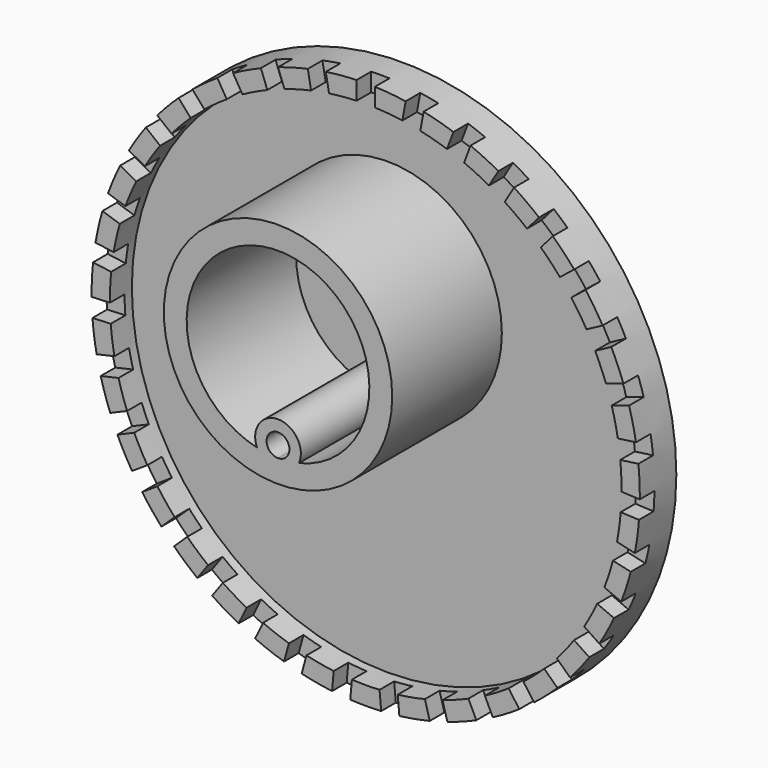
from build123d import *

# Parameters (mm, degrees)
F0_R      = 38.1
F1_DEPTH  = 3.175
F2_T      = -2.54
F4_DEPTH  = 2.54
F5_R      = 1.5875
F6_DEPTH  = 25.4
F7_R      = 3.175
F7_R_2    = 1.5875
F8_DEPTH  = 19.05
F9_R      = 15.875
F9_R_2    = 12.7
F10_DEPTH = 19.05


with BuildPart() as f1:
    # F0 (on Front) → F1 (new body, symmetric)
    with BuildSketch(Plane.XZ):
        Circle(F0_R)
    extrude(amount=F1_DEPTH, both=True)

    # F2
    f2_openings = [f1.faces().sort_by_distance(p)[0] for p in [
        (0, -3.175, 0),
    ]]
    offset(amount=F2_T, openings=f2_openings)

    # F3 (on face) → F4 (cut)
    with BuildSketch(Plane.XZ.offset(3.175)):
        with BuildLine():
            Line((1.27, 35.5373141923), (1.27, 38.0788274504))
            ThreePointArc((1.27, 38.0788274504), (0, 38.1), (-1.27, 38.0788274504))
            Line((-1.27, 38.0788274504), (-1.27, 35.5373141923))
            ThreePointArc((-1.27, 35.5373141923), (0, 35.56), (1.27, 35.5373141923))
        make_face()
        with BuildLine():
            Line((-5.0958418941, 35.1929821895), (-5.5496466096, 37.693652284))
            ThreePointArc((-5.5496466096, 37.693652284), (-6.8030176918, 37.4877173256), (-8.0488277646, 37.2401177712))
            Line((-8.0488277646, 37.2401177712), (-7.5950230492, 34.7394476767))
            ThreePointArc((-7.5950230492, 34.7394476767), (-6.349483179, 34.9885361706), (-5.0958418941, 35.1929821895))
        make_face()
        with BuildLine():
            Line((-11.2978992369, 33.7175187823), (-12.1909230109, 36.0969721188))
            ThreePointArc((-12.1909230109, 36.0969721188), (-13.3873807975, 35.6705485714), (-14.5689595823, 35.2044800656))
            Line((-14.5689595823, 35.2044800656), (-13.6759358083, 32.8250267291))
            ThreePointArc((-13.6759358083, 32.8250267291), (-12.4948887443, 33.292512), (-11.2978992369, 33.7175187823))
        make_face()
        with BuildLine():
            Line((-17.1368328023, 31.1583465785), (-18.4403731159, 33.3401055689))
            ThreePointArc((-18.4403731159, 33.3401055689), (-19.5414624692, 32.7068990362), (-20.6208330517, 32.0373414043))
            Line((-20.6208330517, 32.0373414043), (-19.317292738, 29.8555824139))
            ThreePointArc((-19.317292738, 29.8555824139), (-18.2386983046, 30.5264391005), (-17.1368328023, 31.1583465785))
        make_face()
        with BuildLine():
            Line((-22.4249744612, 27.5977194785), (-24.0971344562, 29.5116605937))
            ThreePointArc((-24.0971344562, 29.5116605937), (-25.0674654583, 28.6920228547), (-26.0099359798, 27.8404962299))
            Line((-26.0099359798, 27.8404962299), (-24.3377759848, 25.9265551147))
            ThreePointArc((-24.3377759848, 25.9265551147), (-23.3963010944, 26.7792213311), (-22.4249744612, 27.5977194785))
        make_face()
        with BuildLine():
            Line((-26.9923589895, 23.1500789671), (-28.9793940679, 24.7346865648))
            ThreePointArc((-28.9793940679, 24.7346865648), (-29.787779482, 23.7549614508), (-30.5630581646, 22.7488345994))
            Line((-30.5630581646, 22.7488345994), (-28.5760230862, 21.1642270016))
            ThreePointArc((-28.5760230862, 21.1642270016), (-27.8019275166, 22.1712973541), (-26.9923589895, 23.1500789671))
        make_face()
        with BuildLine():
            Line((-30.6921868906, 17.9583758696), (-32.9302321099, 19.1627193579))
            ThreePointArc((-32.9302321099, 19.1627193579), (-33.5506897637, 18.0543960402), (-34.1338585125, 16.926006707))
            Line((-34.1338585125, 16.926006707), (-31.8958132932, 15.7216632187))
            ThreePointArc((-31.8958132932, 15.7216632187), (-31.3139771128, 16.8507696375), (-30.6921868906, 17.9583758696))
        make_face()
        with BuildLine():
            Line((-33.4055426513, 12.1894757955), (-35.8226653968, 12.9748465838))
            ThreePointArc((-35.8226653968, 12.9748465838), (-36.2352532708, 11.7735474857), (-36.6075685625, 10.5591630324))
            Line((-36.6075685625, 10.5591630324), (-34.190445817, 9.7737922442))
            ThreePointArc((-34.190445817, 9.7737922442), (-33.8195697195, 10.98864432), (-33.4055426513, 12.1894757955))
        make_face()
        with BuildLine():
            Line((-35.0452167851, 6.0287959399), (-37.5637287428, 6.3699515646))
            ThreePointArc((-37.5637287428, 6.3699515646), (-37.7551859234, 5.1142874277), (-37.904681238, 3.8529391697))
            Line((-37.904681238, 3.8529391697), (-35.3861692803, 3.511783545))
            ThreePointArc((-35.3861692803, 3.511783545), (-35.2381735285, 4.7733349325), (-35.0452167851, 6.0287959399))
        make_face()
        with BuildLine():
            Line((-35.5585088161, -0.3256543778), (-38.0974629396, -0.439678939))
            ThreePointArc((-38.0974629396, -0.439678939), (-38.0616358352, -1.7093500364), (-37.9835062705, -2.977121328))
            Line((-37.9835062705, -2.977121328), (-35.444552147, -2.8630967669))
            ThreePointArc((-35.444552147, -2.8630967669), (-35.5241934462, -1.5953933673), (-35.5585088161, -0.3256543778))
        make_face()
        with BuildLine():
            Line((-34.9289211161, -6.6696378959), (-37.4067133307, -7.2351777998))
            ThreePointArc((-37.4067133307, -7.2351777998), (-37.1447534541, -8.4780475837), (-36.8415101585, -9.7114946967))
            Line((-36.8415101585, -9.7114946967), (-34.3637179439, -9.1459547928))
            ThreePointArc((-34.3637179439, -9.1459547928), (-34.6684365572, -7.9128444115), (-34.9289211161, -6.6696378959))
        make_face()
        with BuildLine():
            Line((-33.1766891519, -12.7992537642), (-35.5136811771, -13.7981320929))
            ThreePointArc((-35.5136811771, -13.7981320929), (-35.0340081342, -14.974253706), (-34.5153975967, -16.1337326352))
            Line((-34.5153975967, -16.1337326352), (-32.1784055715, -15.1348543065))
            ThreePointArc((-32.1784055715, -15.1348543065), (-32.6984075919, -13.9759701256), (-33.1766891519, -12.7992537642))
        make_face()
        with BuildLine():
            Line((-30.3581311004, -18.5174910852), (-32.4792100896, -19.9176030675))
            ThreePointArc((-32.4792100896, -19.9176030675), (-31.7972409668, -20.9891749933), (-31.0799317568, -22.0374191319))
            Line((-31.0799317568, -22.0374191319), (-28.9588527675, -20.6373071497))
            ThreePointArc((-28.9588527675, -20.6373071497), (-29.6774249023, -19.5898966604), (-30.3581311004, -18.5174910852))
        make_face()
        with BuildLine():
            Line((-26.5638377366, -23.6405610065), (-28.400830466, -25.3969058912))
            ThreePointArc((-28.400830466, -25.3969058912), (-27.5384843118, -26.3294869264), (-26.6455313375, -27.2328048453))
            Line((-26.6455313375, -27.2328048453), (-24.8085386082, -25.4764599606))
            ThreePointArc((-24.8085386082, -25.4764599606), (-25.7025853577, -24.574187798), (-26.5638377366, -23.6405610065))
        make_face()
        with BuildLine():
            Line((-21.9157607712, -28.0038038456), (-23.4096247828, -30.0599312629))
            ThreePointArc((-23.4096247828, -30.0599312629), (-22.3946181123, -30.8235474857), (-21.3547216171, -31.5529058037))
            Line((-21.3547216171, -31.5529058037), (-19.8608576054, -29.4967783864))
            ThreePointArc((-19.8608576054, -29.4967783864), (-20.9016435715, -28.76864432), (-21.9157607712, -28.0038038456))
        make_face()
        with BuildLine():
            Line((-16.5632932222, -31.4669813874), (-17.6660144976, -33.7568057104))
            ThreePointArc((-17.6660144976, -33.7568057104), (-16.5309704604, -34.3269138671), (-15.3775535732, -34.8588704077))
            Line((-15.3775535732, -34.8588704077), (-14.2748322977, -32.5690460848))
            ThreePointArc((-14.2748322977, -32.5690460848), (-15.428905763, -32.0384529426), (-16.5632932222, -31.4669813874))
        make_face()
        with BuildLine():
            Line((-10.6784678007, -33.9187842564), (-11.3546039709, -36.3687086472))
            ThreePointArc((-11.3546039709, -36.3687086472), (-10.1360038161, -36.7269849925), (-8.9061383047, -37.0444422349))
            Line((-8.9061383047, -37.0444422349), (-8.2300021345, -34.5945178441))
            ThreePointArc((-8.2300021345, -34.5945178441), (-9.4602702284, -34.2785193263), (-10.6784678007, -33.9187842564))
        make_face()
        with BuildLine():
            Line((-4.4504276379, -35.2804094908), (-4.6782471299, -37.8116913638))
            ThreePointArc((-4.6782471299, -37.8116913638), (-3.4152576692, -37.9466206012), (-2.1484724231, -38.0393752084))
            Line((-2.1484724231, -38.0393752084), (-1.9206529311, -35.5080933354))
            ThreePointArc((-1.9206529311, -35.5080933354), (-3.1875738246, -35.4168458945), (-4.4504276379, -35.2804094908))
        make_face()
        with BuildLine():
            Line((1.9206529311, -35.5080933354), (2.1484724231, -38.0393752084))
            ThreePointArc((2.1484724231, -38.0393752084), (3.4152576692, -37.9466206012), (4.6782471299, -37.8116913638))
            Line((4.6782471299, -37.8116913638), (4.4504276379, -35.2804094908))
            ThreePointArc((4.4504276379, -35.2804094908), (3.1875738246, -35.4168458945), (1.9206529311, -35.5080933354))
        make_face()
        with BuildLine():
            Line((8.2300021345, -34.5945178441), (8.9061383047, -37.0444422349))
            ThreePointArc((8.9061383047, -37.0444422349), (10.1360038161, -36.7269849925), (11.3546039709, -36.3687086472))
            Line((11.3546039709, -36.3687086472), (10.6784678007, -33.9187842564))
            ThreePointArc((10.6784678007, -33.9187842564), (9.4602702284, -34.2785193263), (8.2300021345, -34.5945178441))
        make_face()
        with BuildLine():
            Line((14.2748322977, -32.5690460848), (15.3775535732, -34.8588704077))
            ThreePointArc((15.3775535732, -34.8588704077), (16.5309704604, -34.3269138671), (17.6660144976, -33.7568057104))
            Line((17.6660144976, -33.7568057104), (16.5632932222, -31.4669813874))
            ThreePointArc((16.5632932222, -31.4669813874), (15.428905763, -32.0384529426), (14.2748322977, -32.5690460848))
        make_face()
        with BuildLine():
            Line((19.8608576054, -29.4967783864), (21.3547216171, -31.5529058037))
            ThreePointArc((21.3547216171, -31.5529058037), (22.3946181123, -30.8235474857), (23.4096247828, -30.0599312629))
            Line((23.4096247828, -30.0599312629), (21.9157607712, -28.0038038456))
            ThreePointArc((21.9157607712, -28.0038038456), (20.9016435715, -28.76864432), (19.8608576054, -29.4967783864))
        make_face()
        with BuildLine():
            Line((24.8085386082, -25.4764599606), (26.6455313375, -27.2328048453))
            ThreePointArc((26.6455313375, -27.2328048453), (27.5384843118, -26.3294869264), (28.400830466, -25.3969058912))
            Line((28.400830466, -25.3969058912), (26.5638377366, -23.6405610065))
            ThreePointArc((26.5638377366, -23.6405610065), (25.7025853577, -24.574187798), (24.8085386082, -25.4764599606))
        make_face()
        with BuildLine():
            Line((28.9588527675, -20.6373071497), (31.0799317568, -22.0374191319))
            ThreePointArc((31.0799317568, -22.0374191319), (31.7972409668, -20.9891749933), (32.4792100896, -19.9176030675))
            Line((32.4792100896, -19.9176030675), (30.3581311004, -18.5174910852))
            ThreePointArc((30.3581311004, -18.5174910852), (29.6774249023, -19.5898966604), (28.9588527675, -20.6373071497))
        make_face()
        with BuildLine():
            Line((32.1784055715, -15.1348543065), (34.5153975967, -16.1337326352))
            ThreePointArc((34.5153975967, -16.1337326352), (35.0340081342, -14.974253706), (35.5136811771, -13.7981320929))
            Line((35.5136811771, -13.7981320929), (33.1766891519, -12.7992537642))
            ThreePointArc((33.1766891519, -12.7992537642), (32.6984075919, -13.9759701256), (32.1784055715, -15.1348543065))
        make_face()
        with BuildLine():
            Line((34.3637179439, -9.1459547928), (36.8415101585, -9.7114946967))
            ThreePointArc((36.8415101585, -9.7114946967), (37.1447534541, -8.4780475837), (37.4067133307, -7.2351777998))
            Line((37.4067133307, -7.2351777998), (34.9289211161, -6.6696378959))
            ThreePointArc((34.9289211161, -6.6696378959), (34.6684365572, -7.9128444115), (34.3637179439, -9.1459547928))
        make_face()
        with BuildLine():
            Line((35.444552147, -2.8630967669), (37.9835062705, -2.977121328))
            ThreePointArc((37.9835062705, -2.977121328), (38.0616358352, -1.7093500364), (38.0974629396, -0.439678939))
            Line((38.0974629396, -0.439678939), (35.5585088161, -0.3256543778))
            ThreePointArc((35.5585088161, -0.3256543778), (35.5241934462, -1.5953933673), (35.444552147, -2.8630967669))
        make_face()
        with BuildLine():
            Line((35.3861692803, 3.511783545), (37.904681238, 3.8529391697))
            ThreePointArc((37.904681238, 3.8529391697), (37.7551859234, 5.1142874277), (37.5637287428, 6.3699515646))
            Line((37.5637287428, 6.3699515646), (35.0452167851, 6.0287959399))
            ThreePointArc((35.0452167851, 6.0287959399), (35.2381735285, 4.7733349325), (35.3861692803, 3.511783545))
        make_face()
        with BuildLine():
            Line((34.190445817, 9.7737922442), (36.6075685625, 10.5591630324))
            ThreePointArc((36.6075685625, 10.5591630324), (36.2352532708, 11.7735474857), (35.8226653968, 12.9748465838))
            Line((35.8226653968, 12.9748465838), (33.4055426513, 12.1894757955))
            ThreePointArc((33.4055426513, 12.1894757955), (33.8195697195, 10.98864432), (34.190445817, 9.7737922442))
        make_face()
        with BuildLine():
            Line((31.8958132932, 15.7216632187), (34.1338585125, 16.926006707))
            ThreePointArc((34.1338585125, 16.926006707), (33.5506897637, 18.0543960402), (32.9302321099, 19.1627193579))
            Line((32.9302321099, 19.1627193579), (30.6921868906, 17.9583758696))
            ThreePointArc((30.6921868906, 17.9583758696), (31.3139771128, 16.8507696375), (31.8958132932, 15.7216632187))
        make_face()
        with BuildLine():
            Line((28.5760230862, 21.1642270016), (30.5630581646, 22.7488345994))
            ThreePointArc((30.5630581646, 22.7488345994), (29.787779482, 23.7549614508), (28.9793940679, 24.7346865648))
            Line((28.9793940679, 24.7346865648), (26.9923589895, 23.1500789671))
            ThreePointArc((26.9923589895, 23.1500789671), (27.8019275166, 22.1712973541), (28.5760230862, 21.1642270016))
        make_face()
        with BuildLine():
            Line((24.3377759848, 25.9265551147), (26.0099359798, 27.8404962299))
            ThreePointArc((26.0099359798, 27.8404962299), (25.0674654583, 28.6920228547), (24.0971344562, 29.5116605937))
            Line((24.0971344562, 29.5116605937), (22.4249744612, 27.5977194785))
            ThreePointArc((22.4249744612, 27.5977194785), (23.3963010944, 26.7792213311), (24.3377759848, 25.9265551147))
        make_face()
        with BuildLine():
            Line((19.317292738, 29.8555824139), (20.6208330517, 32.0373414043))
            ThreePointArc((20.6208330517, 32.0373414043), (19.5414624692, 32.7068990362), (18.4403731159, 33.3401055689))
            Line((18.4403731159, 33.3401055689), (17.1368328023, 31.1583465785))
            ThreePointArc((17.1368328023, 31.1583465785), (18.2386983046, 30.5264391005), (19.317292738, 29.8555824139))
        make_face()
        with BuildLine():
            Line((13.6759358083, 32.8250267291), (14.5689595823, 35.2044800656))
            ThreePointArc((14.5689595823, 35.2044800656), (13.3873807975, 35.6705485714), (12.1909230109, 36.0969721188))
            Line((12.1909230109, 36.0969721188), (11.2978992369, 33.7175187823))
            ThreePointArc((11.2978992369, 33.7175187823), (12.4948887443, 33.292512), (13.6759358083, 32.8250267291))
        make_face()
        with BuildLine():
            Line((7.5950230492, 34.7394476767), (8.0488277646, 37.2401177712))
            ThreePointArc((8.0488277646, 37.2401177712), (6.8030176918, 37.4877173256), (5.5496466096, 37.693652284))
            Line((5.5496466096, 37.693652284), (5.0958418941, 35.1929821895))
            ThreePointArc((5.0958418941, 35.1929821895), (6.349483179, 34.9885361706), (7.5950230492, 34.7394476767))
        make_face()
    extrude(amount=-F4_DEPTH, mode=Mode.SUBTRACT)

    # F5 (on face) → F6 (cut)
    with BuildSketch(Plane.XZ.offset(-0.635)):
        Circle(F5_R)
    extrude(amount=-F6_DEPTH, mode=Mode.SUBTRACT)

    # F7 (on face) → F8 (join)
    with BuildSketch(Plane.XZ.offset(-0.635)):
        Circle(F7_R)
        Circle(F7_R_2, mode=Mode.SUBTRACT)
    extrude(amount=F8_DEPTH)

    # F9 (on face) → F10 (join)
    with BuildSketch(Plane.XZ.offset(-0.635)):
        with Locations((0, 11.1125)):
            Circle(F9_R)
        with Locations((0, 11.1125)):
            Circle(F9_R_2, mode=Mode.SUBTRACT)
    extrude(amount=F10_DEPTH)


solid = f1.part
